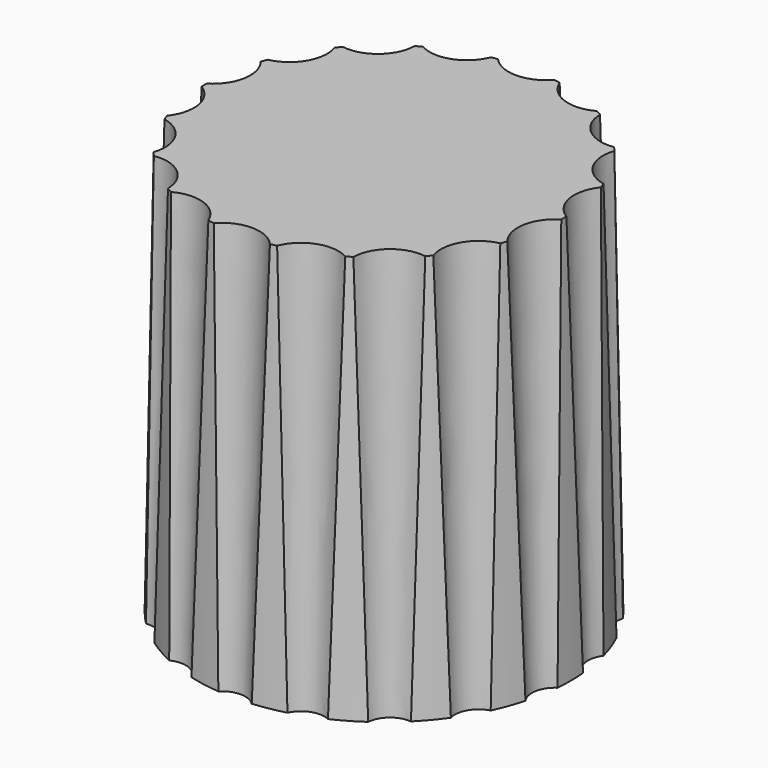
from build123d import *

# Parameters (mm, degrees)
F0_R     = 6
F2_DEPTH = 13
F2_TAPER = 1
F3_DEPTH = 12
F5_R     = 0.7494732789
F6_DEPTH = 13
F6_TAPER = -2


with BuildPart() as f2:
    # F0 (on Top) → F2 (new body)
    with BuildSketch(Plane.XY):
        Circle(F0_R)
    extrude(amount=F2_DEPTH, taper=F2_TAPER)

    # F1 (on Top) → F3 (cut)
    with BuildSketch(Plane.XY):
        with BuildLine():
            ThreePointArc((-1.46, -2.6207632476), (1.5198684154, -2.5865034313), (3, 0))
            ThreePointArc((3, 0), (1.5198684154, 2.5865034313), (-1.46, 2.6207632476))
            Line((-1.46, 2.6207632476), (-1.46, 0))
            Line((-1.46, 0), (-1.46, -2.6207632476))
        make_face()
    extrude(amount=F3_DEPTH, mode=Mode.SUBTRACT)

    # F5 (on face) → F6 (cut)
    with BuildSketch(Plane(origin=(0, 0, 0), x_dir=(1, 0, 0), z_dir=(0, 0, -1))):
        with Locations((0, 6.5)):
            Circle(F5_R)
        with Locations((-2.2231309316, 6.1080020351)):
            Circle(F5_R)
        with Locations((-4.178119463, 4.9792888803)):
            Circle(F5_R)
        with Locations((-5.6291651246, 3.25)):
            Circle(F5_R)
        with Locations((-6.4012503946, 1.1287131548)):
            Circle(F5_R)
        with Locations((-6.4012503946, -1.1287131548)):
            Circle(F5_R)
        with Locations((-5.6291651246, -3.25)):
            Circle(F5_R)
        with Locations((-4.178119463, -4.9792888803)):
            Circle(F5_R)
        with Locations((-2.2231309316, -6.1080020351)):
            Circle(F5_R)
        with Locations((0, -6.5)):
            Circle(F5_R)
        with Locations((2.2231309316, -6.1080020351)):
            Circle(F5_R)
        with Locations((4.178119463, -4.9792888803)):
            Circle(F5_R)
        with Locations((5.6291651246, -3.25)):
            Circle(F5_R)
        with Locations((6.4012503946, -1.1287131548)):
            Circle(F5_R)
        with Locations((6.4012503946, 1.1287131548)):
            Circle(F5_R)
        with Locations((5.6291651246, 3.25)):
            Circle(F5_R)
        with Locations((4.178119463, 4.9792888803)):
            Circle(F5_R)
        with Locations((2.2231309316, 6.1080020351)):
            Circle(F5_R)
    extrude(amount=-F6_DEPTH, taper=F6_TAPER, mode=Mode.SUBTRACT)


solid = f2.part
